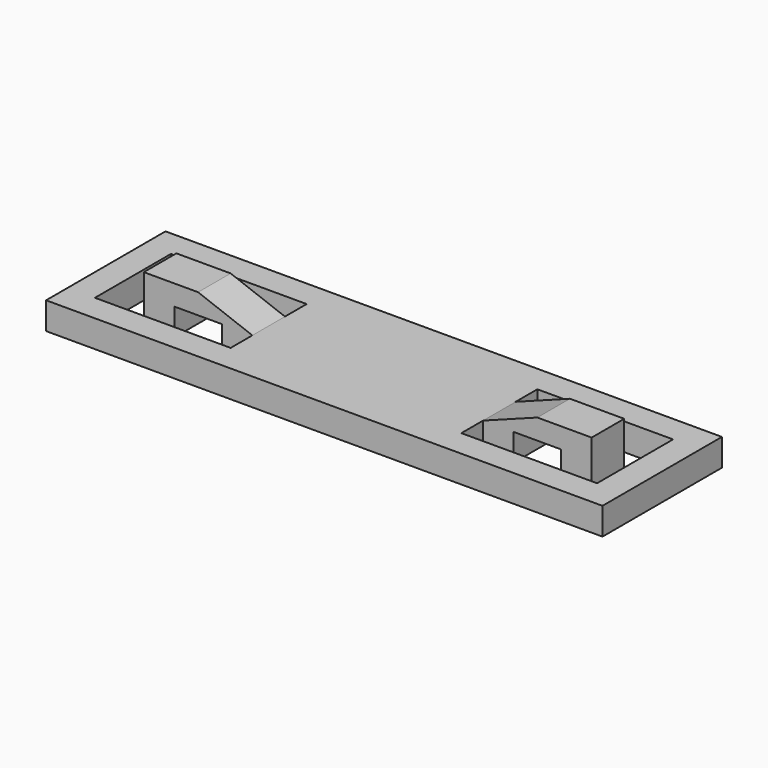
from build123d import *

# Parameters (mm, degrees)
F0_W     = 41
F0_H     = 11
F1_DEPTH = 2
F0_W_2   = 8
F0_H_2   = 3
F2_DEPTH = 3.5
F3_W     = 3.5
F3_H     = 2
F4_DEPTH = 3
F5_W     = 3.5
F5_H     = 2
F6_DEPTH = 3


with BuildPart() as f1:
    # F0 (on Top) → F1 (new body)
    with BuildSketch(Plane.XY):
        with Locations((-20.5, -5.5)):
            Rectangle(F0_W, F0_H)
        Polygon((-39, -9), (-39, -2), (-29, -2), (-29, -4), (-29, -7), (-29, -9), align=None, mode=Mode.SUBTRACT)
        Polygon((-2, -9), (-12, -9), (-12, -7), (-12, -4), (-12, -2), (-2, -2), align=None, mode=Mode.SUBTRACT)
    extrude(amount=F1_DEPTH)

    # F0 (on Top) → F2 (join)
    with BuildSketch(Plane.XY):
        with Locations((-33, -5.5)):
            Rectangle(F0_W_2, F0_H_2)
        with Locations((-8, -5.5)):
            Rectangle(F0_W_2, F0_H_2)
    extrude(amount=F2_DEPTH)

    # F3 (on face) → F4 (cut, through all)
    with BuildSketch(Plane.XZ.offset(7)):
        Polygon((-33, 3.5), (-29, 2), (-29, 3.5), align=None)
        with Locations((-33, 1)):
            Rectangle(F3_W, F3_H)
    extrude(amount=-F4_DEPTH, mode=Mode.SUBTRACT)

    # F5 (on face) → F6 (cut, through all)
    with BuildSketch(Plane.XZ.offset(7)):
        Polygon((-8, 3.5), (-12, 3.5), (-12, 2), align=None)
        with Locations((-8, 1)):
            Rectangle(F5_W, F5_H)
    extrude(amount=-F6_DEPTH, mode=Mode.SUBTRACT)


solid = f1.part
